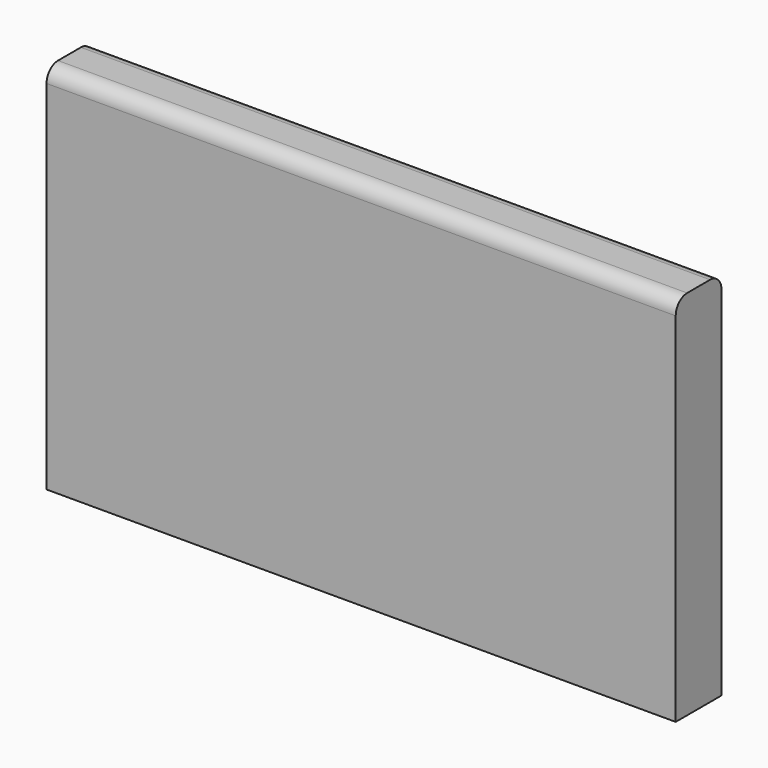
from build123d import *

# Parameters (mm, degrees)
F0_W     = 1117.6
F0_H     = 660.4
F1_DEPTH = 50.8
F2_R     = 25.4


with BuildPart() as f1:
    # F0 (on Front) → F1 (new body, symmetric)
    with BuildSketch(Plane.XZ):
        Rectangle(F0_W, F0_H)
        Rectangle(F0_W, F0_H)
    extrude(amount=F1_DEPTH, both=True)

    # F2
    f2_edges = [f1.edges().sort_by_distance(p)[0] for p in [
        (0, -50.8, 330.2),
        (0, 50.8, 330.2),
    ]]
    fillet(f2_edges, radius=F2_R)


solid = f1.part
